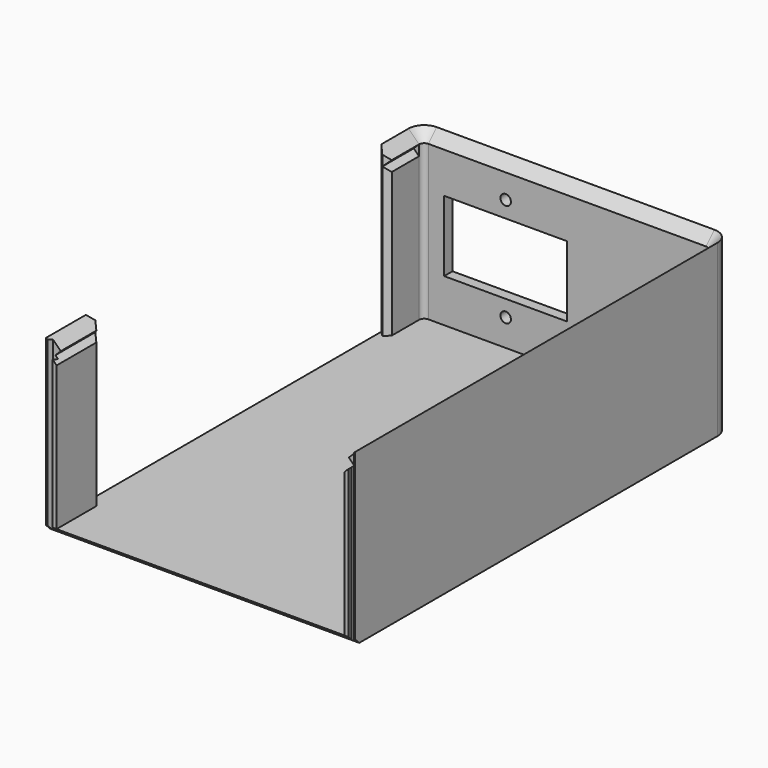
from build123d import *

# Parameters (mm, degrees)
SKETCH_W             = 118
SKETCH_H             = 179
PAD_DEPTH            = 63
PAD_DEPTH_BACK       = 2
SKETCH001_W          = 110
SKETCH001_H          = 175
POCKET_DEPTH         = 63.001
FILLET_R             = 2
FILLET001_R          = 6
CHAMFER_SIZE         = 3.999
POCKET001_DEPTH      = 83.5
POCKET001_DEPTH_BACK = -1000
POCKET002_DEPTH      = 63.001
CHAMFER001_SIZE      = 1.999
POCKET003_DEPTH      = 2.001
POCKET003_DEPTH_BACK = -63.001
SKETCH006_W          = 2
SKETCH006_H          = 2
POCKET004_DEPTH      = 5
SKETCH007_R          = 2
POCKET005_DEPTH      = 89.501


with BuildPart() as part:
    # Sketch → Pad (new body, two sides)
    with BuildSketch(Plane.XY) as pad_sk:
        Rectangle(SKETCH_W, SKETCH_H)
    extrude(amount=PAD_DEPTH)
    extrude(pad_sk.sketch, amount=-PAD_DEPTH_BACK)

    # Sketch001 → Pocket (cut, through all)
    with BuildSketch(Plane.XY):
        with Locations((0, -2)):
            Rectangle(SKETCH001_W, SKETCH001_H)
    extrude(amount=POCKET_DEPTH, mode=Mode.SUBTRACT)

    # Fillet
    fillet_edges = [part.edges().sort_by_distance(p)[0] for p in [
        (55, 85.5, 31.5),
        (-55, 85.5, 31.5),
    ]]
    fillet(fillet_edges, radius=FILLET_R)

    # Fillet001
    fillet001_edges = [part.edges().sort_by_distance(p)[0] for p in [
        (-59, 89.5, 30.5),
        (59, 89.5, 30.5),
    ]]
    fillet(fillet001_edges, radius=FILLET001_R)

    # Chamfer
    chamfer_edges = [part.edges().sort_by_distance(p)[0] for p in [
        (-55, -3, 63),
    ]]
    chamfer(chamfer_edges, length=CHAMFER_SIZE)

    # Sketch003 → Pocket001 (cut, two sides)
    with BuildSketch(Plane.XZ) as pocket001_sk:
        Polygon((-55, 59), (-57, 57), (-55, 55), (55, 55), (57, 57), (55, 59), align=None)
    extrude(amount=-POCKET001_DEPTH, mode=Mode.SUBTRACT)
    extrude(pocket001_sk.sketch, amount=-POCKET001_DEPTH_BACK, mode=Mode.SUBTRACT)

    # Sketch004 → Pocket002 (cut, through all)
    with BuildSketch(Plane.XY):
        Polygon((-59, -70.5), (-59, 70.5), (-57, 68.5), (-55, 70.5), (-55, -70.5), (-57, -68.5), align=None)
    extrude(amount=POCKET002_DEPTH, mode=Mode.SUBTRACT)

    # Chamfer001
    chamfer001_edges = [part.edges().sort_by_distance(p)[0] for p in [
        (0, -89.5, -2),
    ]]
    chamfer(chamfer001_edges, length=CHAMFER001_SIZE)

    # Sketch005 → Pocket003 (cut, two sides)
    with BuildSketch(Plane.XY) as pocket003_sk:
        Polygon((-58.5, -89.5), (-58, -87.5), (-56, -87.5), (-56.5, -89.5), align=None)
        Polygon((58.5, -89.5), (56.5, -89.5), (56, -87.5), (58, -87.5), align=None)
    extrude(amount=-POCKET003_DEPTH, mode=Mode.SUBTRACT)
    extrude(pocket003_sk.sketch, amount=-POCKET003_DEPTH_BACK, mode=Mode.SUBTRACT)

    # Sketch006 (on DatumPlane) → Pocket004 (cut)
    with BuildSketch(Plane.XY.offset(57)):
        with Locations((-56, -88.5)):
            Rectangle(SKETCH006_W, SKETCH006_H)
        with Locations((56, -88.5)):
            Rectangle(SKETCH006_W, SKETCH006_H)
    extrude(amount=POCKET004_DEPTH, mode=Mode.SUBTRACT)

    # Sketch007 → Pocket005 (cut, through all)
    with BuildSketch(Plane.XZ):
        with Locations((-23.5, 10.25)):
            Circle(SKETCH007_R)
        with Locations((-23.5, 49.75)):
            Circle(SKETCH007_R)
        Polygon((0, 43.5), (-47, 43.5), (-47, 30), (-47, 16.5), (0, 16.5), (0, 30), align=None)
    extrude(amount=-POCKET005_DEPTH, mode=Mode.SUBTRACT)


solid = part.part
